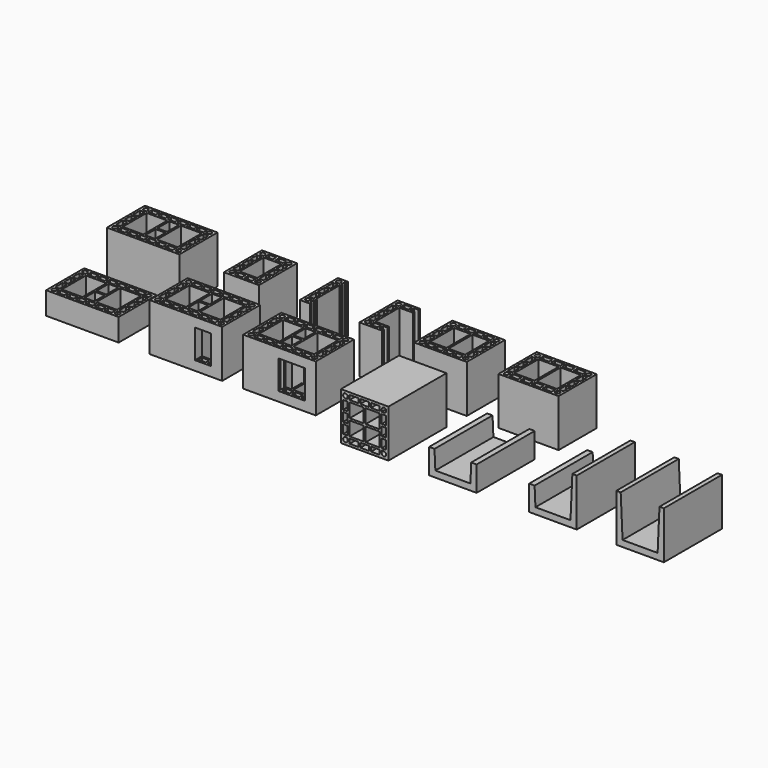
from build123d import *

# Parameters (mm, degrees)
F0_W     = 290
F0_H     = 190
F0_W_2   = 30
F0_H_2   = 18
F0_W_3   = 18
F0_H_3   = 34.66666
F0_W_4   = 39
F0_H_4   = 52
F0_W_5   = 82.5
F0_H_5   = 120
F0_H_6   = 60
F1_DEPTH = 190
F0_W_6   = 140
F0_W_7   = 70
F0_W_8   = 210
F0_W_9   = 29.11764
F0_W_10  = 29.11765
F0_W_11  = 66
F0_W_12  = 240
F0_W_13  = 35.73529
F0_W_14  = 35.7353
F0_W_15  = 81
F2_W     = 290
F2_H     = 190
F2_W_2   = 30
F2_H_2   = 18
F2_W_3   = 18
F2_H_3   = 34.66666
F2_W_4   = 82.5
F2_H_4   = 120
F2_W_5   = 39
F2_H_5   = 52
F2_H_6   = 60
F3_DEPTH = 90
F6_W     = 65
F6_H     = 115
F6_W_2   = 105.3
F7_DEPTH = 87
F8_W     = 190
F8_H     = 190
F8_W_2   = 34.66666
F8_H_2   = 18
F8_W_3   = 18
F8_H_3   = 34.66666
F8_W_4   = 56
F8_H_4   = 56
F8_H_5   = 34.66667
F9_DEPTH = 290


with BuildPart() as f1:
    # F0 (on Top) → F1 (new body)
    with BuildSketch(Plane.XY):
        with Locations((-761.9635272026, 2.0000126958)):
            Rectangle(F0_W, F0_H)
        with BuildLine():
            ThreePointArc((-879.9635272026, -74.9999873042), (-895.3274882333, -81.3639483349), (-888.9635272026, -65.9999873042))
            Line((-888.9635272026, -65.9999873042), (-879.9635272026, -65.9999873042))
            Line((-879.9635272026, -65.9999873042), (-879.9635272026, -74.9999873042))
        make_face(mode=Mode.SUBTRACT)
        with Locations((-856.9635272026, -74.9999873042)):
            Rectangle(F0_W_2, F0_H_2, mode=Mode.SUBTRACT)
        with Locations((-818.9635272026, -74.9999873042)):
            Rectangle(F0_W_2, F0_H_2, mode=Mode.SUBTRACT)
        with Locations((-780.9635272026, -74.9999873042)):
            Rectangle(F0_W_2, F0_H_2, mode=Mode.SUBTRACT)
        with Locations((-742.9635272026, -74.9999873042)):
            Rectangle(F0_W_2, F0_H_2, mode=Mode.SUBTRACT)
        with Locations((-704.9635272026, -74.9999873042)):
            Rectangle(F0_W_2, F0_H_2, mode=Mode.SUBTRACT)
        with Locations((-666.9635272026, -74.9999873042)):
            Rectangle(F0_W_2, F0_H_2, mode=Mode.SUBTRACT)
        with BuildLine():
            ThreePointArc((-634.9635272026, -65.9999873042), (-628.5995661719, -81.3639483349), (-643.9635272026, -74.9999873042))
            Line((-643.9635272026, -74.9999873042), (-643.9635272026, -65.9999873042))
            Line((-643.9635272026, -65.9999873042), (-634.9635272026, -65.9999873042))
        make_face(mode=Mode.SUBTRACT)
        with Locations((-888.9635272026, -40.6666573042)):
            Rectangle(F0_W_3, F0_H_3, mode=Mode.SUBTRACT)
        with Locations((-761.9635272026, -31.9999873042)):
            Rectangle(F0_W_4, F0_H_4, mode=Mode.SUBTRACT)
        with Locations((-634.9635272026, -40.6666573042)):
            Rectangle(F0_W_3, F0_H_3, mode=Mode.SUBTRACT)
        with Locations((-888.9635272026, 2.0000226958)):
            Rectangle(F0_W_3, F0_H_3, mode=Mode.SUBTRACT)
        with Locations((-830.7135272026, 2.0000126958)):
            Rectangle(F0_W_5, F0_H_5, mode=Mode.SUBTRACT)
        with Locations((-693.2135272026, 2.0000126958)):
            Rectangle(F0_W_5, F0_H_5, mode=Mode.SUBTRACT)
        with Locations((-634.9635272026, 2.0000226958)):
            Rectangle(F0_W_3, F0_H_3, mode=Mode.SUBTRACT)
        with Locations((-761.9635272026, 32.0000126958)):
            Rectangle(F0_W_4, F0_H_6, mode=Mode.SUBTRACT)
        with Locations((-888.9635272026, 44.6666826958)):
            Rectangle(F0_W_3, F0_H_3, mode=Mode.SUBTRACT)
        with Locations((-634.9635272026, 44.6666826958)):
            Rectangle(F0_W_3, F0_H_3, mode=Mode.SUBTRACT)
        with BuildLine():
            ThreePointArc((-888.9635272026, 70.0000126958), (-895.3274882333, 85.3639737265), (-879.9635272026, 79.0000126958))
            Line((-879.9635272026, 79.0000126958), (-879.9635272026, 70.0000126958))
            Line((-879.9635272026, 70.0000126958), (-888.9635272026, 70.0000126958))
        make_face(mode=Mode.SUBTRACT)
        with Locations((-856.9635272026, 79.0000126958)):
            Rectangle(F0_W_2, F0_H_2, mode=Mode.SUBTRACT)
        with Locations((-818.9635272026, 79.0000126958)):
            Rectangle(F0_W_2, F0_H_2, mode=Mode.SUBTRACT)
        with Locations((-780.9635272026, 79.0000126958)):
            Rectangle(F0_W_2, F0_H_2, mode=Mode.SUBTRACT)
        with Locations((-742.9635272026, 79.0000126958)):
            Rectangle(F0_W_2, F0_H_2, mode=Mode.SUBTRACT)
        with Locations((-704.9635272026, 79.0000126958)):
            Rectangle(F0_W_2, F0_H_2, mode=Mode.SUBTRACT)
        with Locations((-666.9635272026, 79.0000126958)):
            Rectangle(F0_W_2, F0_H_2, mode=Mode.SUBTRACT)
        with BuildLine():
            ThreePointArc((-643.9635272026, 79.0000126958), (-628.5995661719, 85.3639737265), (-634.9635272026, 70.0000126958))
            Line((-634.9635272026, 70.0000126958), (-643.9635272026, 70.0000126958))
            Line((-643.9635272026, 70.0000126958), (-643.9635272026, 79.0000126958))
        make_face(mode=Mode.SUBTRACT)
    extrude(amount=F1_DEPTH)


with BuildPart() as f1b:
    # F0 (on Top) → F1, piece 2 (new body)
    with BuildSketch(Plane.XY):
        with Locations((-363.3747283464, -5.3706578828)):
            Rectangle(F0_W_6, F0_H)
        with BuildLine():
            ThreePointArc((-406.3747283464, -82.3706578828), (-421.7386893771, -88.7346189135), (-415.3747283464, -73.3706578828))
            Line((-415.3747283464, -73.3706578828), (-406.3747283464, -73.3706578828))
            Line((-406.3747283464, -73.3706578828), (-406.3747283464, -82.3706578828))
        make_face(mode=Mode.SUBTRACT)
        with Locations((-383.3747283464, -82.3706578828)):
            Rectangle(F0_W_2, F0_H_2, mode=Mode.SUBTRACT)
        with Locations((-343.3747283464, -82.3706578828)):
            Rectangle(F0_W_2, F0_H_2, mode=Mode.SUBTRACT)
        with BuildLine():
            ThreePointArc((-311.3747283464, -73.3706578828), (-305.0107673157, -76.0066968521), (-302.3747283464, -82.3706578828))
            ThreePointArc((-302.3747283464, -82.3706578828), (-311.3747283464, -91.3706578828), (-320.3747283464, -82.3706578828))
            Line((-320.3747283464, -82.3706578828), (-320.3747283464, -73.3706578828))
            Line((-320.3747283464, -73.3706578828), (-311.3747283464, -73.3706578828))
        make_face(mode=Mode.SUBTRACT)
        with Locations((-415.3747283464, -48.0373278828)):
            Rectangle(F0_W_3, F0_H_3, mode=Mode.SUBTRACT)
        with Locations((-311.3747283464, -48.0373278828)):
            Rectangle(F0_W_3, F0_H_3, mode=Mode.SUBTRACT)
        with Locations((-415.3747283464, -5.3706478828)):
            Rectangle(F0_W_3, F0_H_3, mode=Mode.SUBTRACT)
        with Locations((-363.3747283464, -5.3706578828)):
            Rectangle(F0_W_7, F0_H_5, mode=Mode.SUBTRACT)
        with Locations((-311.3747283464, -5.3706478828)):
            Rectangle(F0_W_3, F0_H_3, mode=Mode.SUBTRACT)
        with Locations((-415.3747283464, 37.2960121172)):
            Rectangle(F0_W_3, F0_H_3, mode=Mode.SUBTRACT)
        with Locations((-311.3747283464, 37.2960121172)):
            Rectangle(F0_W_3, F0_H_3, mode=Mode.SUBTRACT)
        with BuildLine():
            ThreePointArc((-415.3747283464, 62.6293421172), (-421.7386893771, 77.9933031479), (-406.3747283464, 71.6293421172))
            Line((-406.3747283464, 71.6293421172), (-406.3747283464, 62.6293421172))
            Line((-406.3747283464, 62.6293421172), (-415.3747283464, 62.6293421172))
        make_face(mode=Mode.SUBTRACT)
        with Locations((-383.3747283464, 71.6293421172)):
            Rectangle(F0_W_2, F0_H_2, mode=Mode.SUBTRACT)
        with Locations((-343.3747283464, 71.6293421172)):
            Rectangle(F0_W_2, F0_H_2, mode=Mode.SUBTRACT)
        with BuildLine():
            ThreePointArc((-320.3747283464, 71.6293421172), (-305.0107673157, 77.9933031479), (-311.3747283464, 62.6293421172))
            Line((-311.3747283464, 62.6293421172), (-320.3747283464, 62.6293421172))
            Line((-320.3747283464, 62.6293421172), (-320.3747283464, 71.6293421172))
        make_face(mode=Mode.SUBTRACT)
    extrude(amount=F1_DEPTH)


with BuildPart() as f1c:
    # F0 (on Top) → F1, piece 3 (new body)
    with BuildSketch(Plane.XY):
        Polygon((-131.356562758, 91.5516105377), (-131.356562758, -98.4483894623), (-91.356562758, -98.4483894623), (-91.356562758, -89.4483894623), (-96.356562758, -89.4483894623), (-96.356562758, -71.4483894623), (-91.356562758, -71.4483894623), (-91.356562758, -63.4483894623), (-96.356562758, -63.4483894623), (-96.356562758, 56.5516105377), (-91.356562758, 56.5516105377), (-91.356562758, 64.5516105377), (-96.356562758, 64.5516105377), (-96.356562758, 82.5516105377), (-91.356562758, 82.5516105377), (-91.356562758, 91.5516105377), align=None)
        with BuildLine():
            ThreePointArc((-104.356562758, -80.4483894623), (-119.7205237887, -86.812350493), (-113.356562758, -71.4483894623))
            Line((-113.356562758, -71.4483894623), (-104.356562758, -71.4483894623))
            Line((-104.356562758, -71.4483894623), (-104.356562758, -80.4483894623))
        make_face(mode=Mode.SUBTRACT)
        with Locations((-113.356562758, -46.1150594623)):
            Rectangle(F0_W_3, F0_H_3, mode=Mode.SUBTRACT)
        with Locations((-113.356562758, -3.4483794623)):
            Rectangle(F0_W_3, F0_H_3, mode=Mode.SUBTRACT)
        with Locations((-113.356562758, 39.2182805377)):
            Rectangle(F0_W_3, F0_H_3, mode=Mode.SUBTRACT)
        with BuildLine():
            ThreePointArc((-113.356562758, 64.5516105377), (-119.7205237887, 79.9155715683), (-104.356562758, 73.5516105377))
            Line((-104.356562758, 73.5516105377), (-104.356562758, 64.5516105377))
            Line((-104.356562758, 64.5516105377), (-113.356562758, 64.5516105377))
        make_face(mode=Mode.SUBTRACT)
    extrude(amount=F1_DEPTH)


with BuildPart() as f1d:
    # F0 (on Top) → F1, piece 4 (new body)
    with BuildSketch(Plane.XY):
        Polygon((198.6436851973, 80.4882802748), (198.6436851973, 89.4882802748), (108.6436851973, 89.4882802748), (108.6436851973, -100.5117197252), (198.6436851973, -100.5117197252), (198.6436851973, -91.5117197252), (181.6436851973, -91.5117197252), (181.6436851973, -73.5117197252), (198.6436851973, -73.5117197252), (198.6436851973, -65.5117197252), (143.6436851973, -65.5117197252), (143.6436851973, 54.4882802748), (198.6436851973, 54.4882802748), (198.6436851973, 62.4882802748), (181.6436851973, 62.4882802748), (181.6436851973, 80.4882802748), align=None)
        with BuildLine():
            ThreePointArc((135.6436851973, -82.5117197252), (120.2797241666, -88.8756807559), (126.6436851973, -73.5117197252))
            Line((126.6436851973, -73.5117197252), (135.6436851973, -73.5117197252))
            Line((135.6436851973, -73.5117197252), (135.6436851973, -82.5117197252))
        make_face(mode=Mode.SUBTRACT)
        with Locations((158.6436851973, -82.5117197252)):
            Rectangle(F0_W_2, F0_H_2, mode=Mode.SUBTRACT)
        with Locations((126.6436851973, -48.1783897252)):
            Rectangle(F0_W_3, F0_H_3, mode=Mode.SUBTRACT)
        with Locations((126.6436851973, -5.5117097252)):
            Rectangle(F0_W_3, F0_H_3, mode=Mode.SUBTRACT)
        with Locations((126.6436851973, 37.1549502748)):
            Rectangle(F0_W_3, F0_H_3, mode=Mode.SUBTRACT)
        with BuildLine():
            ThreePointArc((126.6436851973, 62.4882802748), (120.2797241666, 77.8522413054), (135.6436851973, 71.4882802748))
            Line((135.6436851973, 71.4882802748), (135.6436851973, 62.4882802748))
            Line((135.6436851973, 62.4882802748), (126.6436851973, 62.4882802748))
        make_face(mode=Mode.SUBTRACT)
        with Locations((158.6436851973, 71.4882802748)):
            Rectangle(F0_W_2, F0_H_2, mode=Mode.SUBTRACT)
    extrude(amount=F1_DEPTH)


with BuildPart() as f1e:
    # F0 (on Top) → F1, piece 5 (new body)
    with BuildSketch(Plane.XY):
        with Locations((432.1228416914, -5.4036006249)):
            Rectangle(F0_W_8, F0_H)
        with BuildLine():
            ThreePointArc((354.1228416914, -82.4036006249), (338.7588806608, -88.7675616556), (345.1228416914, -73.4036006249))
            Line((345.1228416914, -73.4036006249), (354.1228416914, -73.4036006249))
            Line((354.1228416914, -73.4036006249), (354.1228416914, -82.4036006249))
        make_face(mode=Mode.SUBTRACT)
        with Locations((376.6816616914, -82.4036006249)):
            Rectangle(F0_W_9, F0_H_2, mode=Mode.SUBTRACT)
        with Locations((413.5640166914, -82.4036006249)):
            Rectangle(F0_W_10, F0_H_2, mode=Mode.SUBTRACT)
        with Locations((450.6816616914, -82.4036006249)):
            Rectangle(F0_W_9, F0_H_2, mode=Mode.SUBTRACT)
        with Locations((487.5640166914, -82.4036006249)):
            Rectangle(F0_W_10, F0_H_2, mode=Mode.SUBTRACT)
        with BuildLine():
            ThreePointArc((519.1228416914, -73.4036006249), (525.4868027221, -88.7675616556), (510.1228416914, -82.4036006249))
            Line((510.1228416914, -82.4036006249), (510.1228416914, -73.4036006249))
            Line((510.1228416914, -73.4036006249), (519.1228416914, -73.4036006249))
        make_face(mode=Mode.SUBTRACT)
        with Locations((345.1228416914, -48.0702706249)):
            Rectangle(F0_W_3, F0_H_3, mode=Mode.SUBTRACT)
        with Locations((345.1228416914, -5.4035906249)):
            Rectangle(F0_W_3, F0_H_3, mode=Mode.SUBTRACT)
        with Locations((395.1228416914, -5.4036006249)):
            Rectangle(F0_W_11, F0_H_5, mode=Mode.SUBTRACT)
        with Locations((519.1228416914, -48.0702706249)):
            Rectangle(F0_W_3, F0_H_3, mode=Mode.SUBTRACT)
        with Locations((469.1228416914, -5.4036006249)):
            Rectangle(F0_W_11, F0_H_5, mode=Mode.SUBTRACT)
        with Locations((519.1228416914, -5.4035906249)):
            Rectangle(F0_W_3, F0_H_3, mode=Mode.SUBTRACT)
        with Locations((345.1228416914, 37.2630693751)):
            Rectangle(F0_W_3, F0_H_3, mode=Mode.SUBTRACT)
        with Locations((519.1228416914, 37.2630693751)):
            Rectangle(F0_W_3, F0_H_3, mode=Mode.SUBTRACT)
        with BuildLine():
            ThreePointArc((345.1228416914, 62.5963993751), (338.7588806608, 77.9603604058), (354.1228416914, 71.5963993751))
            Line((354.1228416914, 71.5963993751), (354.1228416914, 62.5963993751))
            Line((354.1228416914, 62.5963993751), (345.1228416914, 62.5963993751))
        make_face(mode=Mode.SUBTRACT)
        with Locations((376.6816616914, 71.5963993751)):
            Rectangle(F0_W_9, F0_H_2, mode=Mode.SUBTRACT)
        with Locations((413.5640166914, 71.5963993751)):
            Rectangle(F0_W_10, F0_H_2, mode=Mode.SUBTRACT)
        with Locations((450.6816616914, 71.5963993751)):
            Rectangle(F0_W_9, F0_H_2, mode=Mode.SUBTRACT)
        with Locations((487.5640166914, 71.5963993751)):
            Rectangle(F0_W_10, F0_H_2, mode=Mode.SUBTRACT)
        with BuildLine():
            ThreePointArc((510.1228416914, 71.5963993751), (525.4868027221, 77.9603604058), (519.1228416914, 62.5963993751))
            Line((519.1228416914, 62.5963993751), (510.1228416914, 62.5963993751))
            Line((510.1228416914, 62.5963993751), (510.1228416914, 71.5963993751))
        make_face(mode=Mode.SUBTRACT)
    extrude(amount=F1_DEPTH)


with BuildPart() as f1f:
    # F0 (on Top) → F1, piece 6 (new body)
    with BuildSketch(Plane.XY):
        with Locations((785.0821312422, -6.6064298071)):
            Rectangle(F0_W_12, F0_H)
        with BuildLine():
            ThreePointArc((692.0821312422, -83.6064298071), (676.7181702115, -89.9703908377), (683.0821312422, -74.6064298071))
            Line((683.0821312422, -74.6064298071), (692.0821312422, -74.6064298071))
            Line((692.0821312422, -74.6064298071), (692.0821312422, -83.6064298071))
        make_face(mode=Mode.SUBTRACT)
        with Locations((717.9497762422, -83.6064298071)):
            Rectangle(F0_W_13, F0_H_2, mode=Mode.SUBTRACT)
        with Locations((763.2144812422, -83.6064298071)):
            Rectangle(F0_W_14, F0_H_2, mode=Mode.SUBTRACT)
        with Locations((806.9497762422, -83.6064298071)):
            Rectangle(F0_W_13, F0_H_2, mode=Mode.SUBTRACT)
        with Locations((852.2144812422, -83.6064298071)):
            Rectangle(F0_W_14, F0_H_2, mode=Mode.SUBTRACT)
        with BuildLine():
            ThreePointArc((887.0821312422, -74.6064298071), (893.4460922729, -89.9703908377), (878.0821312422, -83.6064298071))
            Line((878.0821312422, -83.6064298071), (878.0821312422, -74.6064298071))
            Line((878.0821312422, -74.6064298071), (887.0821312422, -74.6064298071))
        make_face(mode=Mode.SUBTRACT)
        with Locations((683.0821312422, -49.2730998071)):
            Rectangle(F0_W_3, F0_H_3, mode=Mode.SUBTRACT)
        with Locations((887.0821312422, -49.2730998071)):
            Rectangle(F0_W_3, F0_H_3, mode=Mode.SUBTRACT)
        with Locations((683.0821312422, -6.6064198071)):
            Rectangle(F0_W_3, F0_H_3, mode=Mode.SUBTRACT)
        with Locations((740.5821312422, -6.6064298071)):
            Rectangle(F0_W_15, F0_H_5, mode=Mode.SUBTRACT)
        with Locations((829.5821312422, -6.6064298071)):
            Rectangle(F0_W_15, F0_H_5, mode=Mode.SUBTRACT)
        with Locations((887.0821312422, -6.6064198071)):
            Rectangle(F0_W_3, F0_H_3, mode=Mode.SUBTRACT)
        with Locations((683.0821312422, 36.0602401929)):
            Rectangle(F0_W_3, F0_H_3, mode=Mode.SUBTRACT)
        with Locations((887.0821312422, 36.0602401929)):
            Rectangle(F0_W_3, F0_H_3, mode=Mode.SUBTRACT)
        with BuildLine():
            ThreePointArc((683.0821312422, 61.3935701929), (676.7181702115, 76.7575312236), (692.0821312422, 70.3935701929))
            Line((692.0821312422, 70.3935701929), (692.0821312422, 61.3935701929))
            Line((692.0821312422, 61.3935701929), (683.0821312422, 61.3935701929))
        make_face(mode=Mode.SUBTRACT)
        with Locations((717.9497762422, 70.3935701929)):
            Rectangle(F0_W_13, F0_H_2, mode=Mode.SUBTRACT)
        with Locations((763.2144812422, 70.3935701929)):
            Rectangle(F0_W_14, F0_H_2, mode=Mode.SUBTRACT)
        with Locations((806.9497762422, 70.3935701929)):
            Rectangle(F0_W_13, F0_H_2, mode=Mode.SUBTRACT)
        with Locations((852.2144812422, 70.3935701929)):
            Rectangle(F0_W_14, F0_H_2, mode=Mode.SUBTRACT)
        with BuildLine():
            ThreePointArc((878.0821312422, 70.3935701929), (893.4460922729, 76.7575312236), (887.0821312422, 61.3935701929))
            Line((887.0821312422, 61.3935701929), (878.0821312422, 61.3935701929))
            Line((878.0821312422, 61.3935701929), (878.0821312422, 70.3935701929))
        make_face(mode=Mode.SUBTRACT)
    extrude(amount=F1_DEPTH)


with BuildPart() as f3:
    # F2 (on Top) → F3 (new body)
    with BuildSketch(Plane.XY):
        with Locations((-765.8002824783, -296.7754608706)):
            Rectangle(F2_W, F2_H)
        with BuildLine():
            ThreePointArc((-883.8002824783, -373.7754608706), (-899.164243509, -380.1394219013), (-892.8002824783, -364.7754608706))
            Line((-892.8002824783, -364.7754608706), (-883.8002824783, -364.7754608706))
            Line((-883.8002824783, -364.7754608706), (-883.8002824783, -373.7754608706))
        make_face(mode=Mode.SUBTRACT)
        with Locations((-860.8002824783, -373.7754608706)):
            Rectangle(F2_W_2, F2_H_2, mode=Mode.SUBTRACT)
        with Locations((-822.8002824783, -373.7754608706)):
            Rectangle(F2_W_2, F2_H_2, mode=Mode.SUBTRACT)
        with Locations((-784.8002824783, -373.7754608706)):
            Rectangle(F2_W_2, F2_H_2, mode=Mode.SUBTRACT)
        with Locations((-892.8002824783, -339.4421308706)):
            Rectangle(F2_W_3, F2_H_3, mode=Mode.SUBTRACT)
        with Locations((-834.5502824783, -296.7754608706)):
            Rectangle(F2_W_4, F2_H_4, mode=Mode.SUBTRACT)
        with Locations((-746.8002824783, -373.7754608706)):
            Rectangle(F2_W_2, F2_H_2, mode=Mode.SUBTRACT)
        with Locations((-708.8002824783, -373.7754608706)):
            Rectangle(F2_W_2, F2_H_2, mode=Mode.SUBTRACT)
        with Locations((-670.8002824783, -373.7754608706)):
            Rectangle(F2_W_2, F2_H_2, mode=Mode.SUBTRACT)
        with BuildLine():
            ThreePointArc((-638.8002824783, -364.7754608706), (-632.4363214477, -380.1394219013), (-647.8002824783, -373.7754608706))
            Line((-647.8002824783, -373.7754608706), (-647.8002824783, -364.7754608706))
            Line((-647.8002824783, -364.7754608706), (-638.8002824783, -364.7754608706))
        make_face(mode=Mode.SUBTRACT)
        with Locations((-765.8002824783, -330.7754608706)):
            Rectangle(F2_W_5, F2_H_5, mode=Mode.SUBTRACT)
        with Locations((-697.0502824783, -296.7754608706)):
            Rectangle(F2_W_4, F2_H_4, mode=Mode.SUBTRACT)
        with Locations((-638.8002824783, -339.4421308706)):
            Rectangle(F2_W_3, F2_H_3, mode=Mode.SUBTRACT)
        with Locations((-892.8002824783, -296.7754508706)):
            Rectangle(F2_W_3, F2_H_3, mode=Mode.SUBTRACT)
        with Locations((-892.8002824783, -254.1087908706)):
            Rectangle(F2_W_3, F2_H_3, mode=Mode.SUBTRACT)
        with BuildLine():
            ThreePointArc((-892.8002824783, -228.7754608706), (-899.164243509, -213.4114998399), (-883.8002824783, -219.7754608706))
            Line((-883.8002824783, -219.7754608706), (-883.8002824783, -228.7754608706))
            Line((-883.8002824783, -228.7754608706), (-892.8002824783, -228.7754608706))
        make_face(mode=Mode.SUBTRACT)
        with Locations((-860.8002824783, -219.7754608706)):
            Rectangle(F2_W_2, F2_H_2, mode=Mode.SUBTRACT)
        with Locations((-822.8002824783, -219.7754608706)):
            Rectangle(F2_W_2, F2_H_2, mode=Mode.SUBTRACT)
        with Locations((-784.8002824783, -219.7754608706)):
            Rectangle(F2_W_2, F2_H_2, mode=Mode.SUBTRACT)
        with Locations((-765.8002824783, -266.7754608706)):
            Rectangle(F2_W_5, F2_H_6, mode=Mode.SUBTRACT)
        with Locations((-638.8002824783, -296.7754508706)):
            Rectangle(F2_W_3, F2_H_3, mode=Mode.SUBTRACT)
        with Locations((-638.8002824783, -254.1087908706)):
            Rectangle(F2_W_3, F2_H_3, mode=Mode.SUBTRACT)
        with Locations((-746.8002824783, -219.7754608706)):
            Rectangle(F2_W_2, F2_H_2, mode=Mode.SUBTRACT)
        with Locations((-708.8002824783, -219.7754608706)):
            Rectangle(F2_W_2, F2_H_2, mode=Mode.SUBTRACT)
        with Locations((-670.8002824783, -219.7754608706)):
            Rectangle(F2_W_2, F2_H_2, mode=Mode.SUBTRACT)
        with BuildLine():
            ThreePointArc((-647.8002824783, -219.7754608706), (-632.4363214477, -213.4114998399), (-638.8002824783, -228.7754608706))
            Line((-638.8002824783, -228.7754608706), (-647.8002824783, -228.7754608706))
            Line((-647.8002824783, -228.7754608706), (-647.8002824783, -219.7754608706))
        make_face(mode=Mode.SUBTRACT)
    extrude(amount=F3_DEPTH)


with BuildPart() as f4_1:
    # F4: copy of F1
    add(f1.part.moved(Location((410, -299, 0))))


with BuildPart() as f5_1:
    # F5: copy of F4_1
    add(f4_1.part.moved(Location((374, 0, 0))))


with BuildPart() as f7_tool:
    # F6 (on face) → F7 (new body)
    with BuildSketch(Plane.XZ.offset(391.9999873042)):
        with Locations((-283.2635272026, 95)):
            Rectangle(F6_W, F6_H)
        with Locations((70.5864727974, 95)):
            Rectangle(F6_W_2, F6_H)
    extrude(amount=-F7_DEPTH)


with BuildPart() as f4_1_1:
    add(f4_1.part)

    # F7: cut by f7_tool
    add(f7_tool.part, mode=Mode.SUBTRACT)


with BuildPart() as f5_1_1:
    add(f5_1.part)

    # F7: cut by f7_tool
    add(f7_tool.part, mode=Mode.SUBTRACT)


with BuildPart() as f9:
    # F8 (on Front) → F9 (new body)
    with BuildSketch(Plane.XZ):
        with Locations((439.3005084991, 94.4806353934)):
            Rectangle(F8_W, F8_H)
        with BuildLine():
            ThreePointArc((371.3005084991, 17.4806353934), (355.9365474685, 11.1166743627), (362.3005084991, 26.4806353934))
            Line((362.3005084991, 26.4806353934), (371.3005084991, 26.4806353934))
            Line((371.3005084991, 26.4806353934), (371.3005084991, 17.4806353934))
        make_face(mode=Mode.SUBTRACT)
        with Locations((396.6338384991, 17.4806353934)):
            Rectangle(F8_W_2, F8_H_2, mode=Mode.SUBTRACT)
        with Locations((439.3005184991, 17.4806353934)):
            Rectangle(F8_W_2, F8_H_2, mode=Mode.SUBTRACT)
        with Locations((481.9671784991, 17.4806353934)):
            Rectangle(F8_W_2, F8_H_2, mode=Mode.SUBTRACT)
        with BuildLine():
            ThreePointArc((516.3005084991, 26.4806353934), (522.6644695298, 11.1166743627), (507.3005084991, 17.4806353934))
            Line((507.3005084991, 17.4806353934), (507.3005084991, 26.4806353934))
            Line((507.3005084991, 26.4806353934), (516.3005084991, 26.4806353934))
        make_face(mode=Mode.SUBTRACT)
        with Locations((362.3005084991, 51.8139653934)):
            Rectangle(F8_W_3, F8_H_3, mode=Mode.SUBTRACT)
        with Locations((407.3005084991, 62.4806353934)):
            Rectangle(F8_W_4, F8_H_4, mode=Mode.SUBTRACT)
        with Locations((471.3005084991, 62.4806353934)):
            Rectangle(F8_W_4, F8_H_4, mode=Mode.SUBTRACT)
        with Locations((516.3005084991, 51.8139653934)):
            Rectangle(F8_W_3, F8_H_3, mode=Mode.SUBTRACT)
        with Locations((362.3005084991, 94.4806303934)):
            Rectangle(F8_W_3, F8_H_5, mode=Mode.SUBTRACT)
        with Locations((516.3005084991, 94.4806303934)):
            Rectangle(F8_W_3, F8_H_5, mode=Mode.SUBTRACT)
        with Locations((407.3005084991, 126.4806353934)):
            Rectangle(F8_W_4, F8_H_4, mode=Mode.SUBTRACT)
        with Locations((471.3005084991, 126.4806353934)):
            Rectangle(F8_W_4, F8_H_4, mode=Mode.SUBTRACT)
        with Locations((362.3005084991, 137.1473003934)):
            Rectangle(F8_W_3, F8_H_5, mode=Mode.SUBTRACT)
        with Locations((516.3005084991, 137.1473003934)):
            Rectangle(F8_W_3, F8_H_5, mode=Mode.SUBTRACT)
        with BuildLine():
            ThreePointArc((362.3005084991, 162.4806353934), (355.9365474685, 177.8445964241), (371.3005084991, 171.4806353934))
            Line((371.3005084991, 171.4806353934), (371.3005084991, 162.4806353934))
            Line((371.3005084991, 162.4806353934), (362.3005084991, 162.4806353934))
        make_face(mode=Mode.SUBTRACT)
        with Locations((396.6338384991, 171.4806353934)):
            Rectangle(F8_W_2, F8_H_2, mode=Mode.SUBTRACT)
        with Locations((439.3005184991, 171.4806353934)):
            Rectangle(F8_W_2, F8_H_2, mode=Mode.SUBTRACT)
        with Locations((481.9671784991, 171.4806353934)):
            Rectangle(F8_W_2, F8_H_2, mode=Mode.SUBTRACT)
        with BuildLine():
            ThreePointArc((507.3005084991, 171.4806353934), (522.6644695298, 177.8445964241), (516.3005084991, 162.4806353934))
            Line((516.3005084991, 162.4806353934), (507.3005084991, 162.4806353934))
            Line((507.3005084991, 162.4806353934), (507.3005084991, 171.4806353934))
        make_face(mode=Mode.SUBTRACT)
    extrude(amount=F9_DEPTH)


with BuildPart() as f9b:
    # F8 (on Front) → F9, piece 2 (new body)
    with BuildSketch(Plane.XZ):
        Polygon((718.2604289476, 100.7296507247), (696.6695189476, 100.7296507247), (696.6695189476, 0.7296507247), (886.6695189476, 0.7296507247), (886.6695189476, 100.7296507247), (865.0786089476, 100.7296507247), (861.6695189476, 25.7296507247), (721.6695189476, 25.7296507247), align=None)
    extrude(amount=F9_DEPTH)


with BuildPart() as f9c:
    # F8 (on Front) → F9, piece 3 (new body)
    with BuildSketch(Plane.XZ):
        Polygon((1118.2603455011, 101.7048870213), (1096.6694355011, 101.7048870213), (1096.6694355011, 1.7048870213), (1286.6694355011, 1.7048870213), (1286.6694355011, 191.7048870213), (1269.1694355011, 191.7048870213), (1261.6694355011, 26.7048870213), (1121.6694355011, 26.7048870213), align=None)
    extrude(amount=F9_DEPTH)


with BuildPart() as f9d:
    # F8 (on Front) → F9, piece 4 (new body)
    with BuildSketch(Plane.XZ):
        Polygon((1462.3390007019, 189.7175638564), (1444.8390007019, 189.7175638564), (1444.8390007019, -0.2824361436), (1634.8390007019, -0.2824361436), (1634.8390007019, 189.7175638564), (1617.3390007019, 189.7175638564), (1609.8390007019, 24.7175638564), (1469.8390007019, 24.7175638564), align=None)
    extrude(amount=F9_DEPTH)


with BuildPart() as f9_1:
    # F10: moved
    add(f9.part.moved(Location((0, -198, 0))))


with BuildPart() as f9b_1:
    # F10: moved
    add(f9b.part.moved(Location((0, -198, 0))))


with BuildPart() as f9c_1:
    # F10: moved
    add(f9c.part.moved(Location((0, -198, 0))))


with BuildPart() as f9d_1:
    # F10: moved
    add(f9d.part.moved(Location((0, -198, 0))))


solid = Compound([f1.part, f1b.part, f1c.part, f1d.part, f1e.part, f1f.part, f3.part, f4_1_1.part, f5_1_1.part, f9_1.part, f9b_1.part, f9c_1.part, f9d_1.part])
